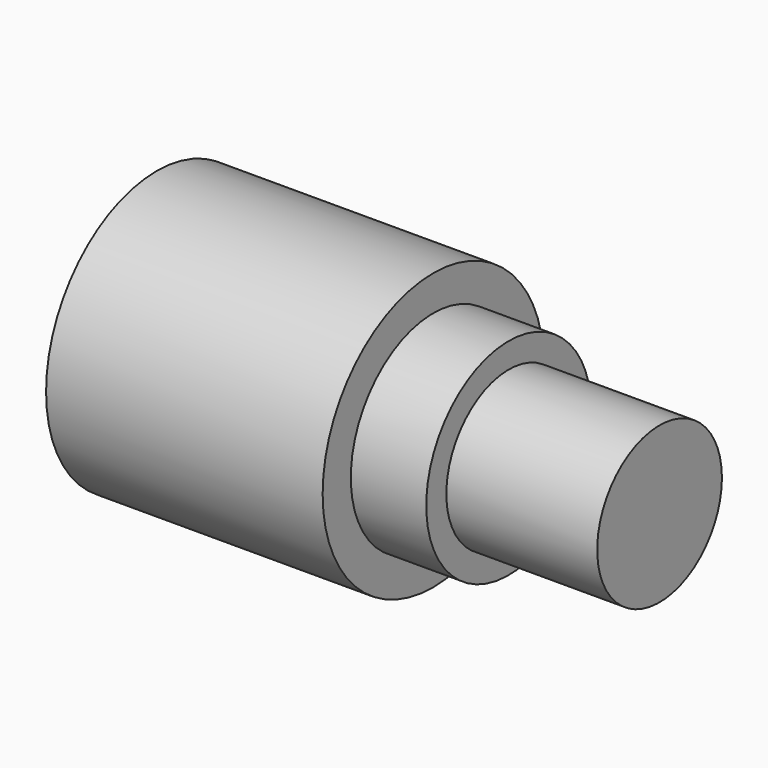
from build123d import *

# Parameters (mm, degrees)
F1_R     = 11
F1_R_2   = 8.2
F1_R_3   = 6.2
F2_DEPTH = 22
F3_DEPTH = 18
F4_DEPTH = 6


with BuildPart() as f2:
    # F1 (on Right) → F2 (new body, through all)
    with BuildSketch(Plane.YZ):
        Circle(F1_R)
        Circle(F1_R_2, mode=Mode.SUBTRACT)
        Circle(F1_R_2)
        Circle(F1_R_3, mode=Mode.SUBTRACT)
        Circle(F1_R_3)
    extrude(amount=-F2_DEPTH)

    # F1 (on Right) → F3 (join, through all)
    with BuildSketch(Plane.YZ):
        Circle(F1_R_3)
    extrude(amount=F3_DEPTH)

    # F1 (on Right) → F4 (join, through all)
    with BuildSketch(Plane.YZ):
        Circle(F1_R_2)
        Circle(F1_R_3, mode=Mode.SUBTRACT)
    extrude(amount=F4_DEPTH)


with BuildPart() as f2_1:
    # F5: moved
    add(f2.part.moved(Location((22, 0, 0))))


solid = f2_1.part
